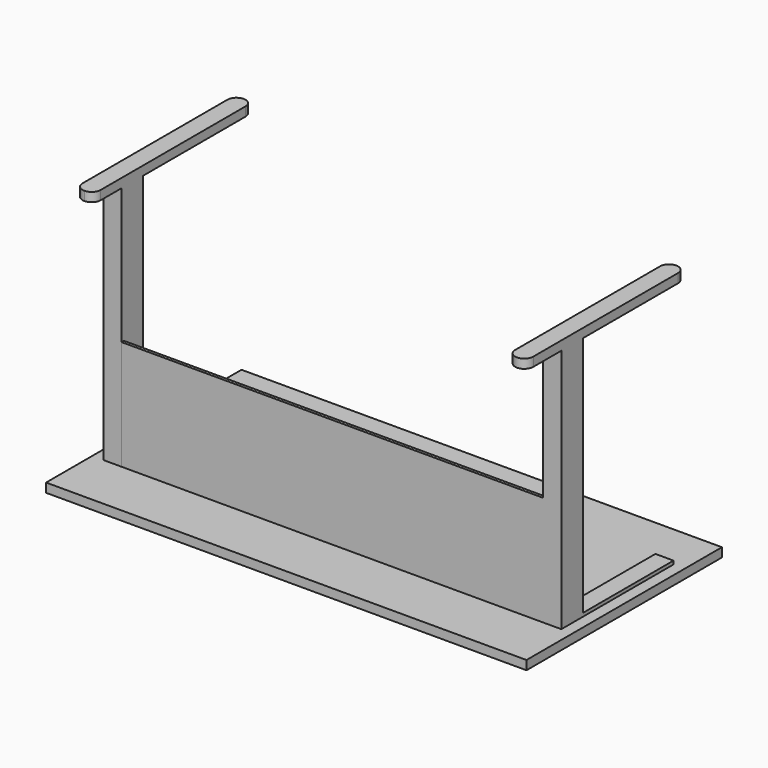
from build123d import *

# Parameters (mm, degrees)
F0_W      = 1348.74
F0_H      = 685.8
F1_DEPTH  = 25.4
F4_W      = 50.8
F4_H      = 317.5
F5_DEPTH  = 9.525
F7_W      = 50.8
F7_H      = 76.2
F8_DEPTH  = 688.34
F10_DEPTH = 25.4
F12_DEPTH = 25.4
F13_W     = 1183.64
F13_H     = 8.255
F14_DEPTH = 307.975


with BuildPart() as f1:
    # F0 (on Top) → F1 (new body)
    with BuildSketch(Plane.XY):
        with Locations((15.8387869596, 66.6778717405)):
            Rectangle(F0_W, F0_H)
    extrude(amount=-F1_DEPTH)

    # F4 (on face) → F5 (join)
    with BuildSketch(Plane.XY):
        with Locations((-601.3812130404, 120.6528717405)):
            Rectangle(F4_W, F4_H)
        with Locations((633.0587869596, 120.6528717405)):
            Rectangle(F4_W, F4_H)
    extrude(amount=F5_DEPTH)

    # F7 (on face) → F8 (join)
    with BuildSketch(Plane.XY):
        with Locations((-601.7126866341, -76.1971282595)):
            Rectangle(F7_W, F7_H)
        with Locations((633.0587869596, -76.1971282595)):
            Rectangle(F7_W, F7_H)
    extrude(amount=F8_DEPTH)

    # F9 (on face) → F10 (join)
    with BuildSketch(Plane.XY.offset(688.34)):
        with BuildLine():
            ThreePointArc((-601.7126866341, -212.7221282595), (-583.7521743919, -205.2826405017), (-576.3126866341, -187.3221282595))
            Line((-576.3126866341, -187.3221282595), (-576.3126866341, 320.6778717405))
            ThreePointArc((-576.3126866341, 320.6778717405), (-583.7521743919, 338.6383839826), (-601.7126866341, 346.0778717405))
            ThreePointArc((-601.7126866341, 346.0778717405), (-619.6731988762, 338.6383839826), (-627.1126866341, 320.6778717405))
            Line((-627.1126866341, 320.6778717405), (-627.1126866341, -187.3221282595))
            ThreePointArc((-627.1126866341, -187.3221282595), (-619.6731988762, -205.2826405017), (-601.7126866341, -212.7221282595))
        make_face()
    extrude(amount=F10_DEPTH)

    # F11 (on face) → F12 (join)
    with BuildSketch(Plane.XY.offset(688.34)):
        with BuildLine():
            ThreePointArc((607.6587869596, -212.7221282595), (633.0587869596, -238.1221282595), (658.4587869596, -212.7221282595))
            Line((658.4587869596, -212.7221282595), (658.4587869596, 295.2778717405))
            ThreePointArc((658.4587869596, 295.2778717405), (651.0192992018, 313.2383839826), (633.0587869596, 320.6778717405))
            ThreePointArc((633.0587869596, 320.6778717405), (615.0982747175, 313.2383839826), (607.6587869596, 295.2778717405))
            Line((607.6587869596, 295.2778717405), (607.6587869596, -212.7221282595))
        make_face()
    extrude(amount=F12_DEPTH)

    # F13 (on face) → F14 (join)
    with BuildSketch(Plane.XY):
        with Locations((15.8387869596, -110.1696282595)):
            Rectangle(F13_W, F13_H)
    extrude(amount=F14_DEPTH)


solid = f1.part
